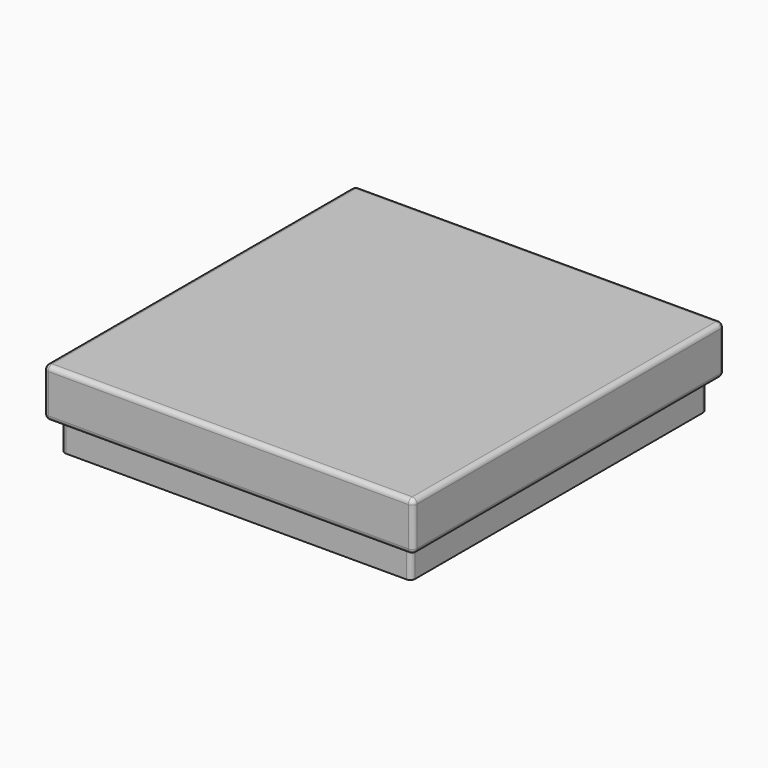
from build123d import *

# Parameters (mm, degrees)
F0_W     = 1930.4
F0_H     = 2032
F1_DEPTH = 254
F2_W     = 1828.8
F2_H     = 1930.4
F2_W_2   = 1778
F2_H_2   = 1879.6
F3_DEPTH = 152.4
F4_R     = 25.4


with BuildPart() as f1:
    # F0 (on Top) → F1 (new body)
    with BuildSketch(Plane.XY):
        with Locations((-34.384124, -14.047471)):
            Rectangle(F0_W, F0_H)
    extrude(amount=-F1_DEPTH)

    # F2 (on face) → F3 (join)
    with BuildSketch(Plane(origin=(0, 0, -254), x_dir=(1, 0, 0), z_dir=(0, 0, -1))):
        with Locations((-34.384124, 14.047471)):
            Rectangle(F2_W, F2_H)
        with Locations((-34.384124, 14.047471)):
            Rectangle(F2_W_2, F2_H_2, mode=Mode.SUBTRACT)
    extrude(amount=F3_DEPTH)

    # F4
    f4_edges = [f1.edges().sort_by_distance(p)[0] for p in [
        (-999.584124, 1001.952529, -127),
        (-999.584124, -1030.047471, -127),
        (-999.584124, -14.047471, 0),
        (-999.584124, -14.047471, -254),
        (930.815876, 1001.952529, -127),
        (-34.384124, 1001.952529, 0),
        (-34.384124, 1001.952529, -254),
        (930.815876, -1030.047471, -127),
        (930.815876, -14.047471, 0),
        (930.815876, -14.047471, -254),
        (-34.384124, -1030.047471, 0),
        (-34.384124, -1030.047471, -254),
        (880.015876, -979.247471, -330.2),
        (880.015876, 951.152529, -330.2),
        (-948.784124, 951.152529, -330.2),
        (-948.784124, -979.247471, -330.2),
    ]]
    fillet(f4_edges, radius=F4_R)


solid = f1.part
